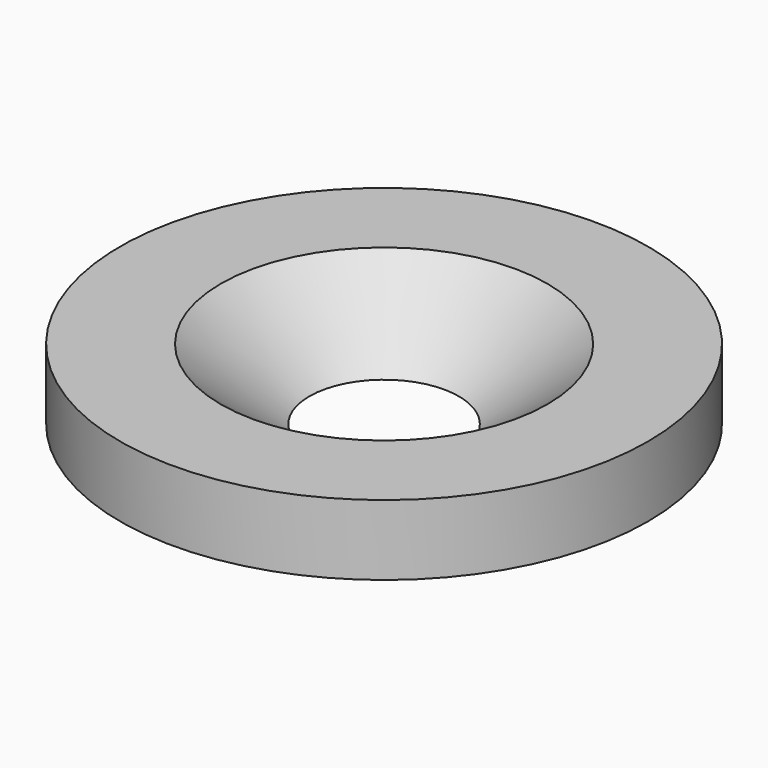
from build123d import *

# Parameters (mm, degrees)
SKETCH_R         = 7.5
PAD_DEPTH        = 2
HOLE_D           = 3.7
HOLE_DEPTH       = 25
HOLE_CSINK_D     = 9.28
HOLE_CSINK_ANGLE = 103


with BuildPart() as part:
    # Sketch → Pad (new body)
    with BuildSketch(Plane.XY):
        Circle(SKETCH_R)
    extrude(amount=PAD_DEPTH)

    # Hole
    with Locations(Plane.XY.offset(2)):
        with Locations((0, 0)):
            CounterSinkHole(HOLE_D / 2, HOLE_CSINK_D / 2, depth=HOLE_DEPTH, counter_sink_angle=HOLE_CSINK_ANGLE)


solid = part.part
